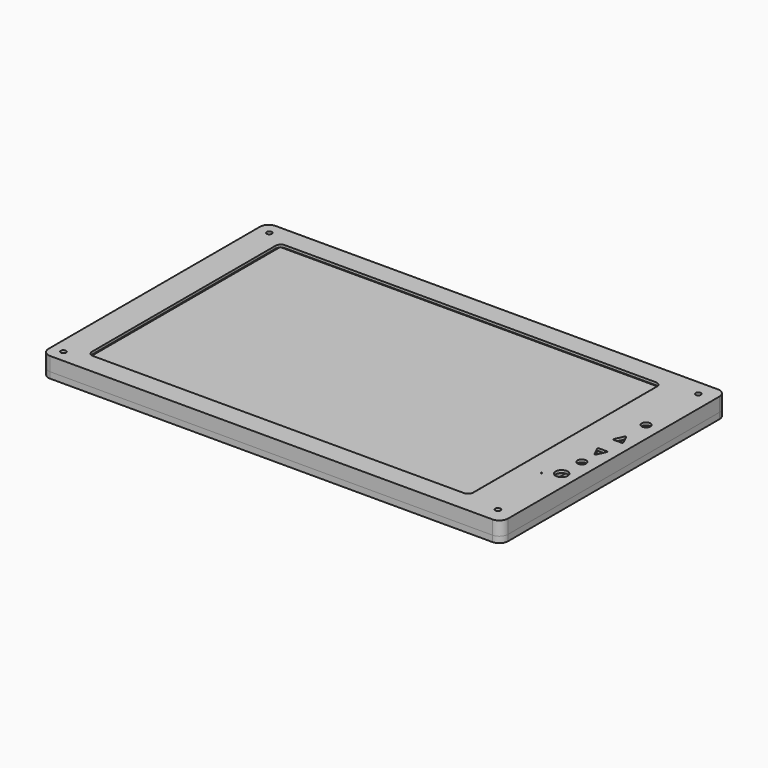
from build123d import *

# Parameters (mm, degrees)
F0_R      = 1.5
F0_R_2    = 0.35
F0_R_3    = 3.5
F0_R_4    = 2.5
F1_DEPTH  = 8
F2_W      = 229.6
F2_H      = 149.2
F3_DEPTH  = 6.5
F4_START  = -4
F4_DEPTH  = 2.5
F5_W      = 216.96
F5_H      = 135.6
F6_DEPTH  = 0.5
F8_DEPTH  = 6.5
F9_R      = 1.5
F10_DEPTH = 3.5
F11_DEPTH = 2.7
F13_DEPTH = 1.5
F14_R     = 3.5
F15_DEPTH = 6.5
F16_R     = 15


with BuildPart() as f1:
    # F0 (on Top) → F1 (new body)
    with BuildSketch(Plane.XY):
        with BuildLine():
            Line((132.73, 81.05), (-121.73, 81.05))
            ThreePointArc((-121.73, 81.05), (-125.2655339059, 79.5855339059), (-126.73, 76.05))
            Line((-126.73, 76.05), (-126.73, -76.05))
            ThreePointArc((-126.73, -76.05), (-125.2655339059, -79.5855339059), (-121.73, -81.05))
            Line((-121.73, -81.05), (132.73, -81.05))
            ThreePointArc((132.73, -81.05), (136.2655339059, -79.5855339059), (137.73, -76.05))
            Line((137.73, -76.05), (137.73, 76.05))
            ThreePointArc((137.73, 76.05), (136.2655339059, 79.5855339059), (132.73, 81.05))
        make_face()
        with Locations((-119.73, -74.05)):
            Circle(F0_R, mode=Mode.SUBTRACT)
        with BuildLine():
            ThreePointArc((-109.73, 66.05), (-108.8513203436, 68.1713203436), (-106.73, 69.05))
            Line((-106.73, 69.05), (106.73, 69.05))
            ThreePointArc((106.73, 69.05), (108.8513203436, 68.1713203436), (109.73, 66.05))
            Line((109.73, 66.05), (109.73, -66.05))
            ThreePointArc((109.73, -66.05), (108.8513203436, -68.1713203436), (106.73, -69.05))
            Line((106.73, -69.05), (-106.73, -69.05))
            ThreePointArc((-106.73, -69.05), (-108.8513203436, -68.1713203436), (-109.73, -66.05))
            Line((-109.73, -66.05), (-109.73, 66.05))
        make_face(mode=Mode.SUBTRACT)
        with Locations((128.73, -72.05)):
            Circle(F0_R, mode=Mode.SUBTRACT)
        with Locations((121.72969, -32.05)):
            Circle(F0_R_2, mode=Mode.SUBTRACT)
        with Locations((129.23, -26.87469)):
            Circle(F0_R_3, mode=Mode.SUBTRACT)
        with Locations((129.23, -12.32479)):
            Circle(F0_R_4, mode=Mode.SUBTRACT)
        with BuildLine():
            Line((131.9624888774, 2.1348513079), (129.6831538935, -2.7531983393))
            ThreePointArc((129.6831538935, -2.7531983393), (129.23, -3.0418892084), (128.7768461065, -2.7531983393))
            Line((128.7768461065, -2.7531983393), (126.4975111226, 2.1348513079))
            ThreePointArc((126.4975111226, 2.1348513079), (126.5289692932, 2.6148102429), (126.9506650161, 2.8461604387))
            Line((126.9506650161, 2.8461604387), (131.5093349839, 2.8461604387))
            ThreePointArc((131.5093349839, 2.8461604387), (131.9310307068, 2.6148102429), (131.9624888774, 2.1348513079))
        make_face(mode=Mode.SUBTRACT)
        with Locations((-119.73, 74.05)):
            Circle(F0_R, mode=Mode.SUBTRACT)
        with BuildLine():
            Line((126.4975111226, 14.1152586921), (128.7768461065, 19.0033083393))
            ThreePointArc((128.7768461065, 19.0033083393), (129.23, 19.2919992084), (129.6831538935, 19.0033083393))
            Line((129.6831538935, 19.0033083393), (131.9624888774, 14.1152586921))
            ThreePointArc((131.9624888774, 14.1152586921), (131.9310307068, 13.6352997571), (131.5093349839, 13.4039495613))
            Line((131.5093349839, 13.4039495613), (126.9506650161, 13.4039495613))
            ThreePointArc((126.9506650161, 13.4039495613), (126.5289692932, 13.6352997571), (126.4975111226, 14.1152586921))
        make_face(mode=Mode.SUBTRACT)
        with Locations((129.23, 33.85054)):
            Circle(F0_R_4, mode=Mode.SUBTRACT)
        with Locations((128.73, 72.05)):
            Circle(F0_R, mode=Mode.SUBTRACT)
    extrude(amount=F1_DEPTH)

    # F2 (on face) → F3 (cut)
    with BuildSketch(Plane(origin=(0, 0, 0), x_dir=(1, 0, 0), z_dir=(0, 0, -1))):
        Rectangle(F2_W, F2_H)
    extrude(amount=-F3_DEPTH, mode=Mode.SUBTRACT)

    # F7 (on face) → F8 (cut)
    with BuildSketch(Plane.XY):
        with BuildLine():
            ThreePointArc((134.5995652174, 37.0750268784), (134.6972121303, 37.5076841315), (134.73, 37.95001))
            ThreePointArc((134.73, 37.95001), (133.8513203436, 40.0713303436), (131.73, 40.95001))
            ThreePointArc((131.73, 40.95001), (131.1416515946, 40.8917520271), (130.5761538462, 40.7192407692))
            ThreePointArc((130.5761538462, 40.7192407692), (128.6911613514, 40.1442032431), (126.73, 39.95001))
            Line((126.73, 39.95001), (124.72969, 39.95001))
            ThreePointArc((124.72969, 39.95001), (122.7685286486, 40.1442032431), (120.8835361538, 40.7192407692))
            ThreePointArc((120.8835361538, 40.7192407692), (120.3180384054, 40.8917520271), (119.72969, 40.95001))
            ThreePointArc((119.72969, 40.95001), (117.6083696564, 40.0713303436), (116.72969, 37.95001))
            ThreePointArc((116.72969, 37.95001), (116.7624778697, 37.5076841315), (116.8601247826, 37.0750268784))
            ThreePointArc((116.8601247826, 37.0750268784), (117.5111042019, 34.1906451906), (117.72969, 31.2418060675))
            Line((117.72969, 31.2418060675), (117.72969, -27.3417960675))
            ThreePointArc((117.72969, -27.3417960675), (117.5111042019, -30.2906351906), (116.8601247826, -33.1750168784))
            ThreePointArc((116.8601247826, -33.1750168784), (116.7624778697, -33.6076741315), (116.72969, -34.05))
            ThreePointArc((116.72969, -34.05), (117.6083696564, -36.1713203436), (119.72969, -37.05))
            ThreePointArc((119.72969, -37.05), (120.3180384054, -36.9917420271), (120.8835361538, -36.8192307692))
            ThreePointArc((120.8835361538, -36.8192307692), (122.7685286486, -36.2441932431), (124.72969, -36.05))
            Line((124.72969, -36.05), (126.73, -36.05))
            ThreePointArc((126.73, -36.05), (128.6911613514, -36.2441932431), (130.5761538462, -36.8192307692))
            ThreePointArc((130.5761538462, -36.8192307692), (131.1416515946, -36.9917420271), (131.73, -37.05))
            ThreePointArc((131.73, -37.05), (133.8513203436, -36.1713203436), (134.73, -34.05))
            ThreePointArc((134.73, -34.05), (134.6972121303, -33.6076741315), (134.5995652174, -33.1750168784))
            ThreePointArc((134.5995652174, -33.1750168784), (133.9485857981, -30.2906351906), (133.73, -27.3417960675))
            Line((133.73, -27.3417960675), (133.73, 31.2418060675))
            ThreePointArc((133.73, 31.2418060675), (133.9485857981, 34.1906451906), (134.5995652174, 37.0750268784))
        make_face()
    extrude(amount=F8_DEPTH, mode=Mode.SUBTRACT)

    # F14 (on face) → F15 (cut)
    with BuildSketch(Plane(origin=(0, 0, 0), x_dir=(1, 0, 0), z_dir=(0, 0, -1))):
        with Locations((-112.3, -72.1505102572)):
            Circle(F14_R)
        with Locations((-112.3, 72.1505102572)):
            Circle(F14_R)
        with Locations((112.3, 72.1505102572)):
            Circle(F14_R)
        with Locations((112.3, -72.1505102572)):
            Circle(F14_R)
    extrude(amount=-F15_DEPTH, mode=Mode.SUBTRACT)

    # F16
    f16_edges = [f1.edges().sort_by_distance(p)[0] for p in [
        (114.8, 69.701021, 3.25),
        (109.8, 74.6, 3.25),
        (114.8, -69.701021, 3.25),
        (109.8, -74.6, 3.25),
        (-109.8, -74.6, 3.25),
        (-114.8, -69.701021, 3.25),
        (-114.8, 69.701021, 3.25),
        (-109.8, 74.6, 3.25),
    ]]
    fillet(f16_edges, radius=F16_R)


with BuildPart() as f4:
    # F2 (on face) → F4 (new body)
    with BuildSketch(Plane(origin=(0, 0, 0), x_dir=(1, 0, 0), z_dir=(0, 0, -1)).offset(F4_START)):
        Rectangle(F2_W, F2_H)
    extrude(amount=-F4_DEPTH)

    # F5 (on face) → F6 (join)
    with BuildSketch(Plane.XY.offset(6.5)):
        Rectangle(F5_W, F5_H)
    extrude(amount=F6_DEPTH)


with BuildPart() as f10:
    # F9 (on Top) → F10 (new body)
    with BuildSketch(Plane.XY):
        with BuildLine():
            Line((-121.73, -81.05), (132.73, -81.05))
            ThreePointArc((132.73, -81.05), (136.2655339059, -79.5855339059), (137.73, -76.05))
            Line((137.73, -76.05), (137.73, 76.05))
            ThreePointArc((137.73, 76.05), (136.2655339059, 79.5855339059), (132.73, 81.05))
            Line((132.73, 81.05), (-121.73, 81.05))
            ThreePointArc((-121.73, 81.05), (-125.2655339059, 79.5855339059), (-126.73, 76.05))
            Line((-126.73, 76.05), (-126.73, -76.05))
            ThreePointArc((-126.73, -76.05), (-125.2655339059, -79.5855339059), (-121.73, -81.05))
        make_face()
        with Locations((-119.73, -74.05)):
            Circle(F9_R, mode=Mode.SUBTRACT)
        with Locations((128.73, -72.05)):
            Circle(F9_R, mode=Mode.SUBTRACT)
        with Locations((-119.73, 74.05)):
            Circle(F9_R, mode=Mode.SUBTRACT)
        with Locations((128.73, 72.05)):
            Circle(F9_R, mode=Mode.SUBTRACT)
    extrude(amount=-F10_DEPTH)

    # F7 (on face) → F11 (cut)
    with BuildSketch(Plane.XY):
        with BuildLine():
            ThreePointArc((134.5995652174, 37.0750268784), (134.6972121303, 37.5076841315), (134.73, 37.95001))
            ThreePointArc((134.73, 37.95001), (133.8513203436, 40.0713303436), (131.73, 40.95001))
            ThreePointArc((131.73, 40.95001), (131.1416515946, 40.8917520271), (130.5761538462, 40.7192407692))
            ThreePointArc((130.5761538462, 40.7192407692), (128.6911613514, 40.1442032431), (126.73, 39.95001))
            Line((126.73, 39.95001), (124.72969, 39.95001))
            ThreePointArc((124.72969, 39.95001), (122.7685286486, 40.1442032431), (120.8835361538, 40.7192407692))
            ThreePointArc((120.8835361538, 40.7192407692), (120.3180384054, 40.8917520271), (119.72969, 40.95001))
            ThreePointArc((119.72969, 40.95001), (117.6083696564, 40.0713303436), (116.72969, 37.95001))
            ThreePointArc((116.72969, 37.95001), (116.7624778697, 37.5076841315), (116.8601247826, 37.0750268784))
            ThreePointArc((116.8601247826, 37.0750268784), (117.5111042019, 34.1906451906), (117.72969, 31.2418060675))
            Line((117.72969, 31.2418060675), (117.72969, -27.3417960675))
            ThreePointArc((117.72969, -27.3417960675), (117.5111042019, -30.2906351906), (116.8601247826, -33.1750168784))
            ThreePointArc((116.8601247826, -33.1750168784), (116.7624778697, -33.6076741315), (116.72969, -34.05))
            ThreePointArc((116.72969, -34.05), (117.6083696564, -36.1713203436), (119.72969, -37.05))
            ThreePointArc((119.72969, -37.05), (120.3180384054, -36.9917420271), (120.8835361538, -36.8192307692))
            ThreePointArc((120.8835361538, -36.8192307692), (122.7685286486, -36.2441932431), (124.72969, -36.05))
            Line((124.72969, -36.05), (126.73, -36.05))
            ThreePointArc((126.73, -36.05), (128.6911613514, -36.2441932431), (130.5761538462, -36.8192307692))
            ThreePointArc((130.5761538462, -36.8192307692), (131.1416515946, -36.9917420271), (131.73, -37.05))
            ThreePointArc((131.73, -37.05), (133.8513203436, -36.1713203436), (134.73, -34.05))
            ThreePointArc((134.73, -34.05), (134.6972121303, -33.6076741315), (134.5995652174, -33.1750168784))
            ThreePointArc((134.5995652174, -33.1750168784), (133.9485857981, -30.2906351906), (133.73, -27.3417960675))
            Line((133.73, -27.3417960675), (133.73, 31.2418060675))
            ThreePointArc((133.73, 31.2418060675), (133.9485857981, 34.1906451906), (134.5995652174, 37.0750268784))
        make_face()
    extrude(amount=-F11_DEPTH, mode=Mode.SUBTRACT)

    # F12 (on face) → F13 (join)
    with BuildSketch(Plane.XY):
        with BuildLine():
            Line((-113.58, -74.25), (113.58, -74.25))
            ThreePointArc((113.58, -74.25), (114.2871067812, -73.9571067812), (114.58, -73.25))
            Line((114.58, -73.25), (114.58, 73.25))
            ThreePointArc((114.58, 73.25), (114.2871067812, 73.9571067812), (113.58, 74.25))
            Line((113.58, 74.25), (-113.58, 74.25))
            ThreePointArc((-113.58, 74.25), (-114.2871067812, 73.9571067812), (-114.58, 73.25))
            Line((-114.58, 73.25), (-114.58, -73.25))
            ThreePointArc((-114.58, -73.25), (-114.2871067812, -73.9571067812), (-113.58, -74.25))
        make_face()
    extrude(amount=F13_DEPTH)


solid = Compound([f1.part, f4.part, f10.part])
